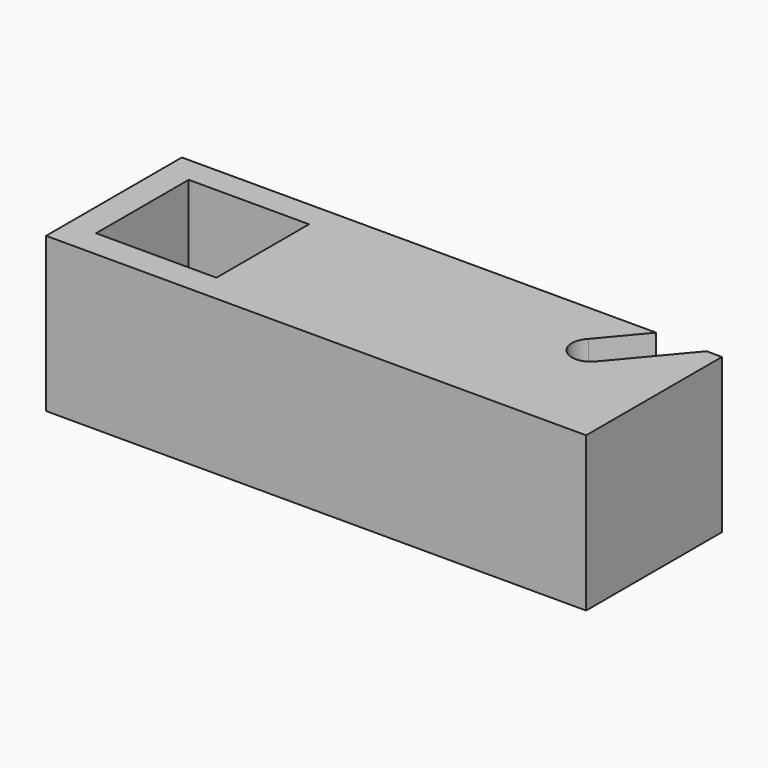
from build123d import *

# Parameters (mm, degrees)
F0_W     = 19.812
F0_H     = 19.05
F1_DEPTH = 25.4
F2_R     = 1.905
F3_DEPTH = 7.62


with BuildPart() as f1:
    # F0 (on Top) → F1 (new body)
    with BuildSketch(Plane.XY):
        with BuildLine():
            Line((78.070664, 0), (0, 0))
            Line((0, 0), (0, -27.94))
            Line((0, -27.94), (88.9, -27.94))
            Line((88.9, -27.94), (88.9, 0))
            Line((88.9, 0), (86.36, 0))
            Line((86.36, 0), (76.884093, -11.292947))
            ThreePointArc((76.884093, -11.292947), (72.378782, -11.315446), (72.356282, -6.810135))
            Line((72.356282, -6.810135), (78.070664, 0))
        make_face()
        with Locations((14.478, -13.843)):
            Rectangle(F0_W, F0_H, mode=Mode.SUBTRACT)
    extrude(amount=F1_DEPTH)

    # F2 (on face) → F3 (cut)
    with BuildSketch(Plane(origin=(0, 0, 0), x_dir=(0, -1, 0), z_dir=(-1, 0, 0))):
        with Locations((13.97, 12.7)):
            Circle(F2_R)
    extrude(amount=-F3_DEPTH, mode=Mode.SUBTRACT)


solid = f1.part
